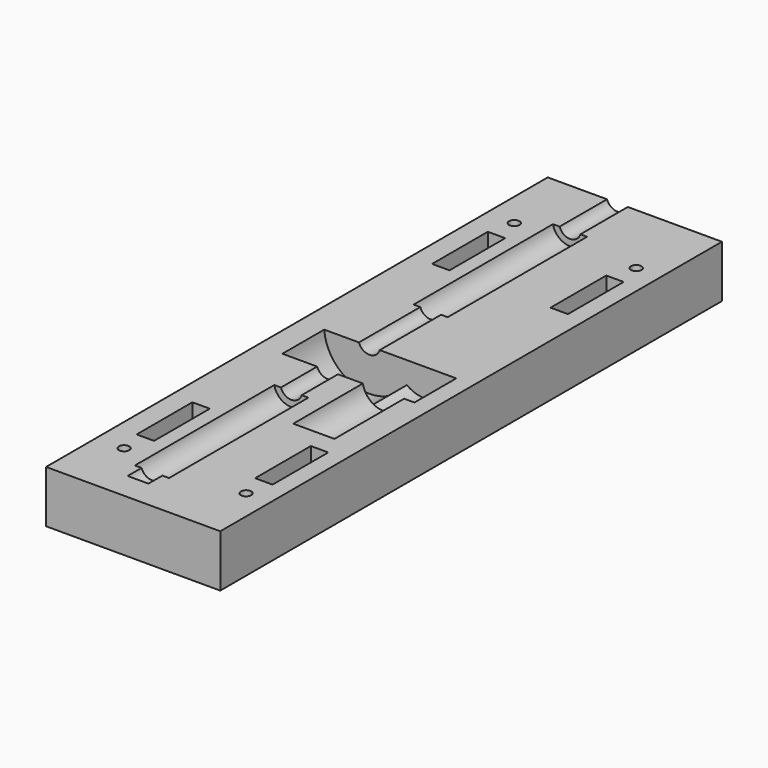
from build123d import *

# Parameters (mm, degrees)
SKETCH006_R     = 3.15
PAD002_DEPTH    = 190
SKETCH011_R     = 5
PAD007_DEPTH    = 50
SKETCH010_R     = 5
PAD006_DEPTH    = 50
SKETCH008_R     = 13
PAD004_DEPTH    = 15
SKETCH009_R     = 9
PAD005_DEPTH    = 15
SKETCH013_R     = 6
PAD008_DEPTH    = 26
BOX001_W        = 50
BOX001_H        = 180
BOX001_DEPTH    = 15
SKETCH015_R     = 1.5
POCKET001_DEPTH = 389.834296
SKETCH016_R     = 1.5
POCKET002_DEPTH = 389.834296
SKETCH017_R     = 3
POCKET003_DEPTH = 5
SKETCH018_R     = 3
POCKET004_DEPTH = 5
SKETCH022_W     = 5
SKETCH022_H     = 20
POCKET008_DEPTH = 389.834296
SKETCH023_W     = 5
SKETCH023_H     = 20
POCKET009_DEPTH = 389.834296


with BuildPart() as pad002:
    # Sketch006 → Pad002 (new body)
    with BuildSketch(Plane.XZ.offset(80)):
        Circle(SKETCH006_R)
    extrude(amount=-PAD002_DEPTH)


with BuildPart() as pad007:
    # Sketch011 → Pad007 (new body)
    with BuildSketch(Plane.XZ.offset(-75)):
        Circle(SKETCH011_R)
    extrude(amount=PAD007_DEPTH)


with BuildPart() as scassi_perno:
    # Sketch010 → Pad006 (new body)
    with BuildSketch(Plane.XZ.offset(25)):
        Circle(SKETCH010_R)
    extrude(amount=PAD006_DEPTH)

    # Fusion002: union Pad007
    add(pad007.part)


with BuildPart() as scasso_ruota_dentata:
    # Sketch008 → Pad004 (new body)
    with BuildSketch(Plane.XZ.offset(-3)):
        Circle(SKETCH008_R)
    extrude(amount=PAD004_DEPTH)


with BuildPart() as obj1:
    # Sketch009 → Pad005 (new body)
    with BuildSketch(Plane.XZ.offset(-3)):
        with Locations((15.997087, 9e-06)):
            Circle(SKETCH009_R)
    extrude(amount=PAD005_DEPTH)

    # Fusion001: union scasso_ruota_dentata
    add(scasso_ruota_dentata.part)


with BuildPart() as fusion:
    # Sketch013 → Pad008 (new body)
    with BuildSketch(Plane.XZ.offset(11)):
        with Locations((16.059561, 9e-06)):
            Circle(SKETCH013_R)
    extrude(amount=PAD008_DEPTH)

    # Fusion005: union scassi_perno, obj1
    add(scassi_perno.part)
    add(obj1.part)

    # Fusion: union Pad002
    add(pad002.part)


with BuildPart() as obj2:
    # Box001 → Box001 (new body)
    with BuildSketch(Plane(origin=(-20, -88, -16), x_dir=(1, 0, 0), z_dir=(0, 0, 1))):
        with Locations((25, 90)):
            Rectangle(BOX001_W, BOX001_H)
    extrude(amount=BOX001_DEPTH)

    # Cut001: cut Fusion
    add(fusion.part, mode=Mode.SUBTRACT)

    # Sketch015 → Pocket001 (cut, through all)
    with BuildSketch(Plane(origin=(0, 0, -16), x_dir=(1, 0, 0), z_dir=(0, 0, -1))):
        with Locations((23, 70)):
            Circle(SKETCH015_R)
    pocket001 = extrude(amount=-POCKET001_DEPTH, mode=Mode.SUBTRACT)

    # Mirrored: Pocket001 across Sketch015 H_Axis
    add(pocket001.mirror(Plane(origin=(0, 0, -16), x_dir=(0, 0, -1), z_dir=(0, -1, 0))), mode=Mode.SUBTRACT)

    # Sketch016 → Pocket002 (cut, through all)
    with BuildSketch(Plane(origin=(0, 0, -16), x_dir=(1, 0, 0), z_dir=(0, 0, -1))):
        with Locations((-12, 70)):
            Circle(SKETCH016_R)
    pocket002 = extrude(amount=-POCKET002_DEPTH, mode=Mode.SUBTRACT)

    # Mirrored001: Pocket002 across Sketch016 H_Axis
    add(pocket002.mirror(Plane(origin=(0, 0, -16), x_dir=(0, 0, -1), z_dir=(0, -1, 0))), mode=Mode.SUBTRACT)

    # Sketch017 → Pocket003 (cut)
    with BuildSketch(Plane(origin=(0, 0, -16), x_dir=(1, 0, 0), z_dir=(0, 0, -1))):
        with Locations((23, 70)):
            Circle(SKETCH017_R)
    pocket003 = extrude(amount=-POCKET003_DEPTH, mode=Mode.SUBTRACT)

    # Mirrored002: Pocket003 across Sketch017 H_Axis
    add(pocket003.mirror(Plane(origin=(0, 0, -16), x_dir=(0, 0, -1), z_dir=(0, -1, 0))), mode=Mode.SUBTRACT)

    # Sketch018 → Pocket004 (cut)
    with BuildSketch(Plane(origin=(0, 0, -16), x_dir=(1, 0, 0), z_dir=(0, 0, -1))):
        with Locations((-12, 70)):
            Circle(SKETCH018_R)
    pocket004 = extrude(amount=-POCKET004_DEPTH, mode=Mode.SUBTRACT)

    # Mirrored003: Pocket004 across Sketch018 H_Axis
    add(pocket004.mirror(Plane(origin=(0, 0, -16), x_dir=(0, 0, -1), z_dir=(0, -1, 0))), mode=Mode.SUBTRACT)

    # Sketch022 → Pocket008 (cut, through all)
    with BuildSketch(Plane(origin=(0, 0, -16), x_dir=(1, 0, 0), z_dir=(0, 0, -1))):
        with Locations((22.5, 53)):
            Rectangle(SKETCH022_W, SKETCH022_H)
    pocket008 = extrude(amount=-POCKET008_DEPTH, mode=Mode.SUBTRACT)

    # Mirrored006: Pocket008 across Sketch022 H_Axis
    add(pocket008.mirror(Plane(origin=(0, 0, -16), x_dir=(0, 0, -1), z_dir=(0, -1, 0))), mode=Mode.SUBTRACT)

    # Sketch023 → Pocket009 (cut, through all)
    with BuildSketch(Plane(origin=(0, 0, -16), x_dir=(1, 0, 0), z_dir=(0, 0, -1))):
        with Locations((-11.5, 53)):
            Rectangle(SKETCH023_W, SKETCH023_H)
    pocket009 = extrude(amount=-POCKET009_DEPTH, mode=Mode.SUBTRACT)

    # Mirrored007: Pocket009 across Sketch023 H_Axis
    add(pocket009.mirror(Plane(origin=(0, 0, -16), x_dir=(0, 0, -1), z_dir=(0, -1, 0))), mode=Mode.SUBTRACT)


solid = obj2.part
